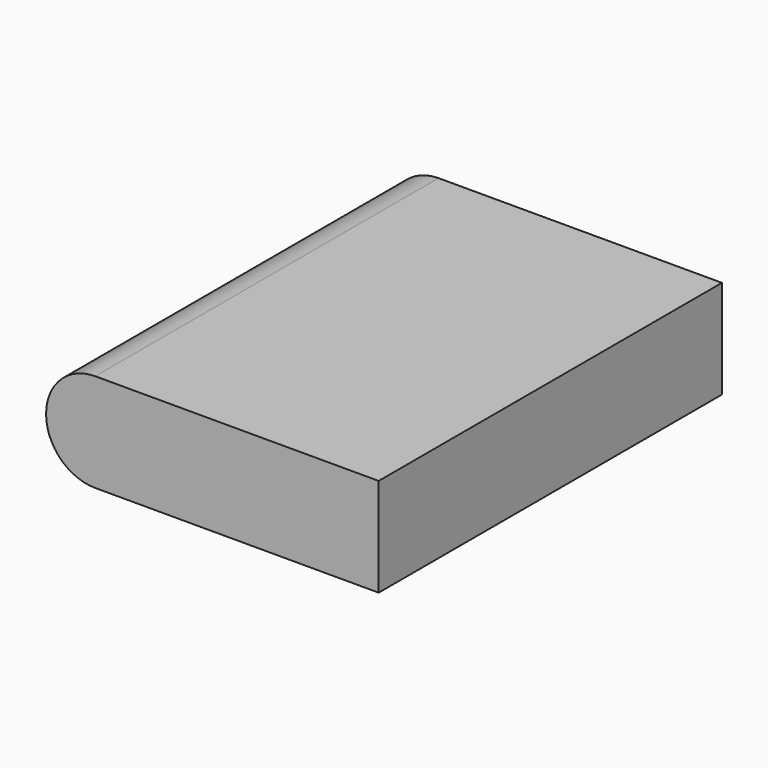
from build123d import *

# Parameters (mm, degrees)
F1_DEPTH = 109


with BuildPart() as f1:
    # F0 (on Front) → F1 (new body, symmetric)
    with BuildSketch(Plane.XZ):
        with BuildLine():
            Line((89.583099, 22.5), (-54.416901, 22.5))
            ThreePointArc((-54.416901, 22.5), (-79.416901, -2.5), (-54.416901, -27.5))
            Line((-54.416901, -27.5), (89.583099, -27.5))
            Line((89.583099, -27.5), (89.583099, 22.5))
        make_face()
    extrude(amount=F1_DEPTH, both=True)


solid = f1.part
